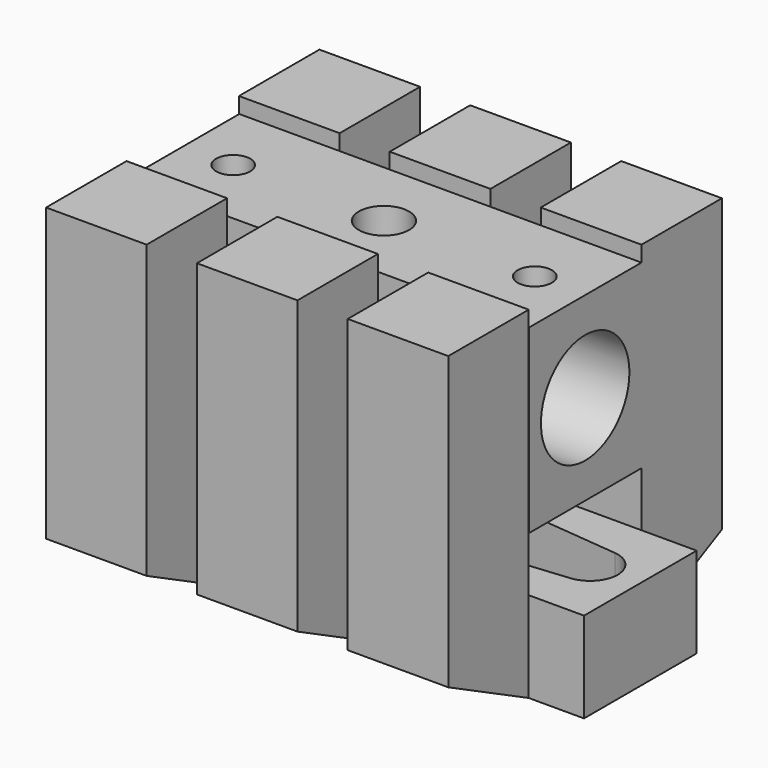
from build123d import *

# Parameters (mm, degrees)
F0_W      = 51
F0_H      = 14
F1_DEPTH  = 6
F2_R      = 2.5
F3_DEPTH  = 4
F6_DEPTH  = 2
F7_DEPTH  = 3
F8_W      = 10
F8_H      = 9
F9_DEPTH  = 10
F10_W     = 10
F10_H     = 10
F11_DEPTH = 25
F12_W     = 10.0145330653
F12_H     = 9
F12_W_2   = 10.0145321339
F13_DEPTH = 10
F14_W     = 10.0145330653
F14_H     = 10
F14_W_2   = 10.0145321339
F15_DEPTH = 25
F16_W     = 14
F16_H     = 18
F16_R     = 5.5
F17_DEPTH = 40
F18_R     = 1.7
F19_DEPTH = 5
F20_R     = 2.5
F21_DEPTH = 20
F22_SIZE2 = 5
F22_SIZE  = 10


with BuildPart() as f1:
    # F0 (on Top) → F1 (new body)
    with BuildSketch(Plane.XY):
        Rectangle(F0_W, F0_H)
    extrude(amount=F1_DEPTH)

    # F2 (on face) → F3 (cut)
    with BuildSketch(Plane(origin=(0, 0, 0), x_dir=(1, 0, 0), z_dir=(0, 0, -1))):
        with BuildLine():
            ThreePointArc((0.4634146341, 4.7273403597), (-4.38e-08, 4.75), (-0.4634147213, 4.7273403512))
            ThreePointArc((-0.4634147213, 4.7273403512), (-4.75, -4.38e-08), (-0.4634146341, -4.7273403597))
            ThreePointArc((-0.4634146341, -4.7273403597), (0, -4.75), (0.4634146341, -4.7273403597))
            ThreePointArc((0.4634146341, -4.7273403597), (3.5187866881, -3.1907115576), (4.75, 0))
            ThreePointArc((4.75, 0), (3.5187866881, 3.1907115576), (0.4634146341, 4.7273403597))
        make_face()
        Circle(F2_R, mode=Mode.SUBTRACT)
        Circle(F2_R)
    extrude(amount=-F3_DEPTH, mode=Mode.SUBTRACT)

    # F5 (on offset) → F6 (cut)
    with BuildSketch(Plane(origin=(0, 0, 4), x_dir=(1, 0, 0), z_dir=(0, 0, -1))):
        with BuildLine():
            Line((-0.4634146341, 4.7273403597), (-20.7682926829, 2.7368812609))
            ThreePointArc((-20.7682926829, 2.7368812609), (-23.25, 0), (-20.7682926829, -2.7368812609))
            Line((-20.7682926829, -2.7368812609), (-0.4634146341, -4.7273403597))
            ThreePointArc((-0.4634146341, -4.7273403597), (-4.75, 0), (-0.4634146341, 4.7273403597))
        make_face()
        with BuildLine():
            ThreePointArc((0.4634146341, 4.7273403597), (0, 4.75), (-0.4634146341, 4.7273403597))
            ThreePointArc((-0.4634146341, 4.7273403597), (-4.75, 0), (-0.4634146341, -4.7273403597))
            ThreePointArc((-0.4634146341, -4.7273403597), (0, -4.75), (0.4634146341, -4.7273403597))
            ThreePointArc((0.4634146341, -4.7273403597), (3.5187866881, -3.1907115576), (4.75, 0))
            ThreePointArc((4.75, 0), (3.5187866881, 3.1907115576), (0.4634146341, 4.7273403597))
        make_face()
        with BuildLine():
            Line((20.7682926829, 2.7368812609), (0.4634146341, 4.7273403597))
            ThreePointArc((0.4634146341, 4.7273403597), (3.5187866881, 3.1907115576), (4.75, 0))
            ThreePointArc((4.75, 0), (3.5187866881, -3.1907115576), (0.4634146341, -4.7273403597))
            Line((0.4634146341, -4.7273403597), (20.7682926829, -2.7368812609))
            ThreePointArc((20.7682926829, -2.7368812609), (23.25, 0), (20.7682926829, 2.7368812609))
        make_face()
    extrude(amount=-F6_DEPTH, mode=Mode.SUBTRACT)

    # F7 (add): a face of the model
    f7_faces = [f1.faces().sort_by_distance(p)[0] for p in [
        (0, 6.4711332871, 6),
    ]]
    extrude(f7_faces, amount=F7_DEPTH)

    # F8 (on face) → F9 (join)
    with BuildSketch(Plane.XZ.offset(7)):
        with Locations((15, 4.5)):
            Rectangle(F8_W, F8_H)
        with Locations((-15, 4.5)):
            Rectangle(F8_W, F8_H)
        Polygon((0, 0), (5, 0), (5, 9), (-5, 9), (-5, 0), align=None)
    extrude(amount=F9_DEPTH)

    # F10 (on face) → F11 (join)
    with BuildSketch(Plane.XY.offset(9)):
        with Locations((15, -12)):
            Rectangle(F10_W, F10_H)
        with Locations((0, -12)):
            Rectangle(F10_W, F10_H)
        with Locations((-15, -12)):
            Rectangle(F10_W, F10_H)
    extrude(amount=F11_DEPTH)

    # F12 (on face) → F13 (join)
    with BuildSketch(Plane(origin=(0, 7, 0), x_dir=(-1, 0, 0), z_dir=(0, 1, 0))):
        with Locations((-15.0052965619, 4.5)):
            Rectangle(F12_W, F12_H)
        with Locations((0.0165025704, 4.5)):
            Rectangle(F12_W_2, F12_H)
        with Locations((15.0112351403, 4.5)):
            Rectangle(F12_W_2, F12_H)
    extrude(amount=F13_DEPTH)

    # F14 (on face) → F15 (join)
    with BuildSketch(Plane.XY.offset(9)):
        with Locations((15.0052965619, 12)):
            Rectangle(F14_W, F14_H)
        with Locations((-0.0165025704, 12)):
            Rectangle(F14_W_2, F14_H)
        with Locations((-15.0112351403, 12)):
            Rectangle(F14_W_2, F14_H)
    extrude(amount=F15_DEPTH)

    # F16 (on face) → F17 (join)
    with BuildSketch(Plane.YZ.offset(20.0125630945)):
        with Locations((0, 23.4342994317)):
            Rectangle(F16_W, F16_H)
        with Locations((0, 23.444019258)):
            Circle(F16_R, mode=Mode.SUBTRACT)
    extrude(amount=-F17_DEPTH)

    # F18 (on face) → F19 (cut)
    with BuildSketch(Plane.XY.offset(32.4342994317)):
        with Locations((15, 0)):
            Circle(F18_R)
        with Locations((-14.9937184528, 0)):
            Circle(F18_R)
    extrude(amount=-F19_DEPTH, mode=Mode.SUBTRACT)

    # F20 (on face) → F21 (cut)
    with BuildSketch(Plane.XY.offset(32.4342994317)):
        Circle(F20_R)
    extrude(amount=-F21_DEPTH, mode=Mode.SUBTRACT)

    # F22
    f22_edges = [f1.edges().sort_by_distance(p)[0] for p in [
        (15.005297, 17, 0),
        (-0.016503, 17, 0),
        (-15.011235, 17, 0),
        (15, -17, 0),
        (0, -17, 0),
        (-15, -17, 0),
    ]]
    f22_side = f1.faces().sort_by_distance((22.756282, 6.387056, 0))[0]
    chamfer(f22_edges, length=F22_SIZE, length2=F22_SIZE2, reference=f22_side)


solid = f1.part
